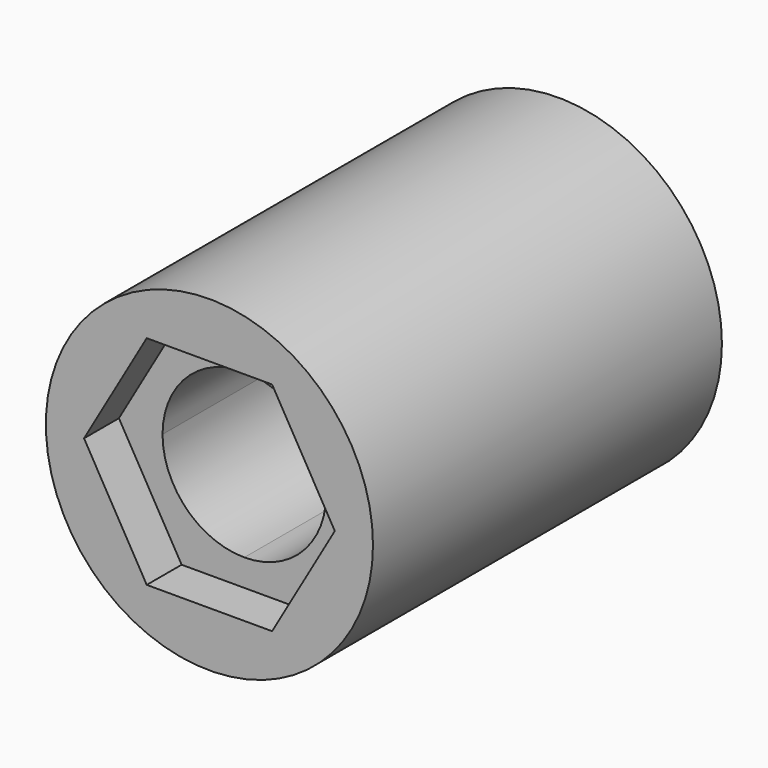
from build123d import *

# Parameters (mm, degrees)
F0_R     = 9.525
F1_DEPTH = 25.4
F3_DEPTH = 25.4
F4_DEPTH = 11.0998
F6_DEPTH = 2.54


with BuildPart() as f1:
    # F0 (on Front) → F1 (new body)
    with BuildSketch(Plane.XZ):
        Circle(F0_R)
    extrude(amount=F1_DEPTH)

    # F2 (on Front) → F3 (cut)
    with BuildSketch(Plane.XZ):
        with BuildLine():
            ThreePointArc((-4.7625, 0), (-3.367596, -3.367596), (0, -4.7625))
            ThreePointArc((0, -4.7625), (3.367596, -3.367596), (4.7625, 0))
            ThreePointArc((4.7625, 0), (3.367596, 3.367596), (0, 4.7625))
            ThreePointArc((0, 4.7625), (-3.367596, 3.367596), (-4.7625, 0))
        make_face()
    extrude(amount=F3_DEPTH, mode=Mode.SUBTRACT)

    # F2 (on Front) → F4 (cut)
    with BuildSketch(Plane.XZ):
        with BuildLine():
            Line((-4.7625, 0), (-4.7625, -4.7625))
            Line((-4.7625, -4.7625), (0, -4.7625))
            ThreePointArc((0, -4.7625), (-3.367596, -3.367596), (-4.7625, 0))
        make_face()
        with BuildLine():
            ThreePointArc((4.7625, 0), (3.367596, -3.367596), (0, -4.7625))
            Line((0, -4.7625), (4.7625, -4.7625))
            Line((4.7625, -4.7625), (4.7625, 0))
        make_face()
        with BuildLine():
            Line((-4.7625, 4.7625), (-4.7625, 0))
            ThreePointArc((-4.7625, 0), (-3.367596, 3.367596), (0, 4.7625))
            Line((0, 4.7625), (-4.7625, 4.7625))
        make_face()
        with BuildLine():
            ThreePointArc((0, 4.7625), (3.367596, 3.367596), (4.7625, 0))
            Line((4.7625, 0), (4.7625, 4.7625))
            Line((4.7625, 4.7625), (0, 4.7625))
        make_face()
    extrude(amount=F4_DEPTH, mode=Mode.SUBTRACT)

    # F5 (on face) → F6 (cut)
    with BuildSketch(Plane.XZ.offset(25.4)):
        Polygon((7.3025, 0), (3.65125, 6.324151), (-3.65125, 6.324151), (-7.3025, 0), (-3.65125, -6.324151), (3.65125, -6.324151), align=None)
    extrude(amount=-F6_DEPTH, mode=Mode.SUBTRACT)


solid = f1.part
